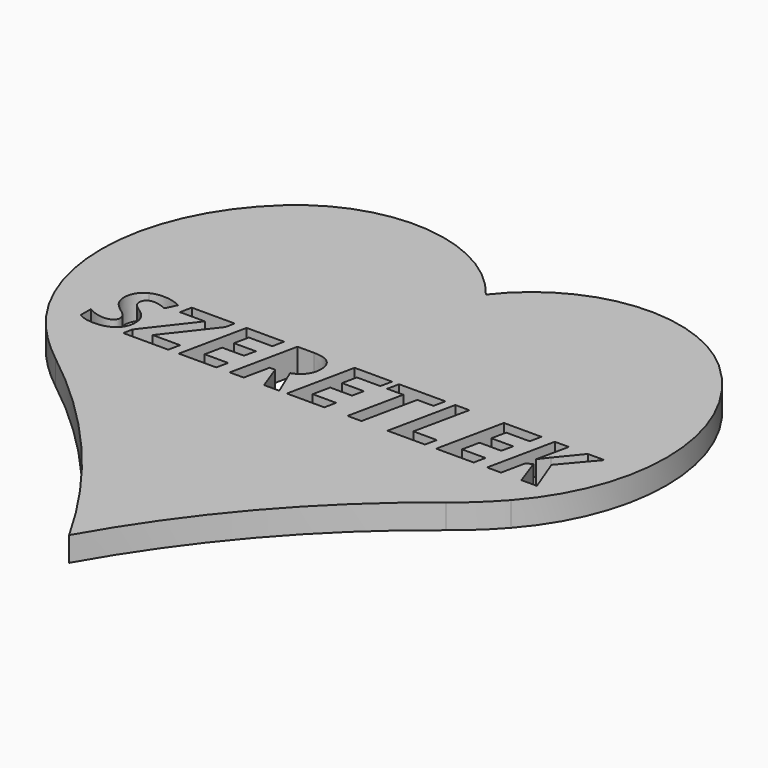
from build123d import *

# Parameters (mm, degrees)
F1_DEPTH = 5


with BuildPart() as f1:
    # F0 (on Top) → F1 (new body)
    with BuildSketch(Plane.XY):
        with BuildLine():
            ThreePointArc((39.9847812951, -13.5503625497), (43.9367876921, -10.1710657097), (47.5637614727, -6.445067469))
            ThreePointArc((47.5637614727, -6.445067469), (57.7574296409, 22.7274453414), (44.4848015904, 50.6341420114))
            ThreePointArc((44.4848015904, 50.6341420114), (21.3589499339, 58.3817468835), (0, 46.6078072786))
            ThreePointArc((0, 46.6078072786), (-21.3589499339, 58.3817468835), (-44.4848015904, 50.6341420114))
            ThreePointArc((-44.4848015904, 50.6341420114), (-57.7574296409, 22.7274453414), (-47.5637614727, -6.445067469))
            ThreePointArc((-47.5637614727, -6.445067469), (-43.9367876921, -10.1710657097), (-39.9847812951, -13.5503625497))
            ThreePointArc((-39.9847812951, -13.5503625497), (-17.6817313741, -34.786119341), (0, -60))
            ThreePointArc((0, -60), (17.6817313741, -34.786119341), (39.9847812951, -13.5503625497))
        make_face()
        with BuildLine():
            add(Edge.make_bspline(
                [(-38.2190007028, 6.1661579287), (-37.656258132, 5.2612678749), (-37.656258132, 4.0517465095)],
                knots=[0, 0, 0, 1, 1, 1], degree=2))
            add(Edge.make_bspline(
                [(-37.656258132, 4.0517465095), (-37.656258132, 2.0919017164), (-39.0443564732, 0.9514101063)],
                knots=[0, 0, 0, 1, 1, 1], degree=2))
            add(Edge.make_bspline(
                [(-39.0443564732, 0.9514101063), (-40.4324548144, -0.1890815038), (-42.8034768459, -0.1890815038)],
                knots=[0, 0, 0, 1, 1, 1], degree=2))
            add(Edge.make_bspline(
                [(-42.8034768459, -0.1890815038), (-44.8773708, -0.1890815038), (-46.143916746, 0.6572833227)],
                knots=[0, 0, 0, 1, 1, 1], degree=2))
            Line((-46.143916746, 0.6572833227), (-46.143916746, 3.226390739))
            add(Edge.make_bspline(
                [(-46.143916746, 3.226390739), (-44.3341366384, 2.2149547585), (-42.7854690837, 2.2149547585)],
                knots=[0, 0, 0, 1, 1, 1], degree=2))
            add(Edge.make_bspline(
                [(-42.7854690837, 2.2149547585), (-41.7350162849, 2.2149547585), (-41.1437614239, 2.6126261752)],
                knots=[0, 0, 0, 1, 1, 1], degree=2))
            add(Edge.make_bspline(
                [(-41.1437614239, 2.6126261752), (-40.5525065629, 3.0102975919), (-40.5525065629, 3.7035964391)],
                knots=[0, 0, 0, 1, 1, 1], degree=2))
            add(Edge.make_bspline(
                [(-40.5525065629, 3.7035964391), (-40.5525065629, 4.10877109), (-40.6800615456, 4.4134024016)],
                knots=[0, 0, 0, 1, 1, 1], degree=2))
            add(Edge.make_bspline(
                [(-40.6800615456, 4.4134024016), (-40.8076165283, 4.7180337133), (-41.0417174377, 4.980646913)],
                knots=[0, 0, 0, 1, 1, 1], degree=2))
            add(Edge.make_bspline(
                [(-41.0417174377, 4.980646913), (-41.2758183472, 5.2432601127), (-42.2032181038, 5.9365589599)],
                knots=[0, 0, 0, 1, 1, 1], degree=2))
            add(Edge.make_bspline(
                [(-42.2032181038, 5.9365589599), (-43.4997769868, 6.8669600102), (-44.0250033862, 7.7763520045)],
                knots=[0, 0, 0, 1, 1, 1], degree=2))
            add(Edge.make_bspline(
                [(-44.0250033862, 7.7763520045), (-44.5502297856, 8.6857439989), (-44.5502297856, 9.7361967977)],
                knots=[0, 0, 0, 1, 1, 1], degree=2))
            add(Edge.make_bspline(
                [(-44.5502297856, 9.7361967977), (-44.5502297856, 10.9457181631), (-43.9679788057, 11.8971282694)],
                knots=[0, 0, 0, 1, 1, 1], degree=2))
            add(Edge.make_bspline(
                [(-43.9679788057, 11.8971282694), (-43.3857278258, 12.8485383757), (-42.3112646774, 13.3782667156)],
                knots=[0, 0, 0, 1, 1, 1], degree=2))
            add(Edge.make_bspline(
                [(-42.3112646774, 13.3782667156), (-41.2368015289, 13.9079950556), (-39.8411999534, 13.9079950556)],
                knots=[0, 0, 0, 1, 1, 1], degree=2))
            add(Edge.make_bspline(
                [(-39.8411999534, 13.9079950556), (-37.8063228175, 13.9079950556), (-36.1165944584, 12.980595299)],
                knots=[0, 0, 0, 1, 1, 1], degree=2))
            Line((-36.1165944584, 12.980595299), (-37.1400356138, 10.7956534775))
            add(Edge.make_bspline(
                [(-37.1400356138, 10.7956534775), (-38.6016656509, 11.4889523247), (-39.8411999534, 11.4889523247)],
                knots=[0, 0, 0, 1, 1, 1], degree=2))
            add(Edge.make_bspline(
                [(-39.8411999534, 11.4889523247), (-40.6185350245, 11.4889523247), (-41.1152491336, 11.0672705584)],
                knots=[0, 0, 0, 1, 1, 1], degree=2))
            add(Edge.make_bspline(
                [(-41.1152491336, 11.0672705584), (-41.6119632428, 10.645588792), (-41.6119632428, 9.9522899448)],
                knots=[0, 0, 0, 1, 1, 1], degree=2))
            add(Edge.make_bspline(
                [(-41.6119632428, 9.9522899448), (-41.6119632428, 9.3790428461), (-41.3028299906, 8.9528591391)],
                knots=[0, 0, 0, 1, 1, 1], degree=2))
            add(Edge.make_bspline(
                [(-41.3028299906, 8.9528591391), (-40.9936967383, 8.5266754322), (-39.9162322962, 7.8213714102)],
                knots=[0, 0, 0, 1, 1, 1], degree=2))
            add(Edge.make_bspline(
                [(-39.9162322962, 7.8213714102), (-38.7817432735, 7.0710479825), (-38.2190007028, 6.1661579287)],
                knots=[0, 0, 0, 1, 1, 1], degree=2))
        make_face(mode=Mode.SUBTRACT)
        Polygon((-27.2237611935, 2.4010349686), (-27.7219759494, 0), (-36.9239424666, 0), (-36.566788515, 1.8848124503), (-29.2796473853, 11.3118759958), (-34.3728428124, 11.3118759958), (-33.8746280565, 13.7129109644), (-25.0958439525, 13.7129109644), (-25.4800095475, 11.8190946329), (-32.8151713766, 2.4010349686), align=None, mode=Mode.SUBTRACT)
        Polygon((-17.3855204096, 2.4010349686), (-17.8927390468, 0), (-25.5550418903, 0), (-22.6587934594, 13.7129109644), (-14.984485441, 13.7129109644), (-15.4917040782, 11.3298837581), (-20.2937740153, 11.3298837581), (-20.9240456946, 8.3195861662), (-16.4491167719, 8.3195861662), (-16.9653392901, 5.9365589599), (-21.4372669191, 5.9365589599), (-22.1875903468, 2.4010349686), align=None, mode=Mode.SUBTRACT)
        with BuildLine():
            Line((-10.0503585806, 5.2612678749), (-11.166839841, 5.2612678749))
            Line((-11.166839841, 5.2612678749), (-12.2833211014, 0))
            Line((-12.2833211014, 0), (-15.1435540077, 0))
            Line((-15.1435540077, 0), (-12.2473055768, 13.7129109644))
            Line((-12.2473055768, 13.7129109644), (-8.8798540334, 13.7129109644))
            add(Edge.make_bspline(
                [(-8.8798540334, 13.7129109644), (-6.6558953937, 13.7129109644), (-5.5394141333, 12.7554982707)],
                knots=[0, 0, 0, 1, 1, 1], degree=2))
            add(Edge.make_bspline(
                [(-5.5394141333, 12.7554982707), (-4.4229328729, 11.7980855769), (-4.4229328729, 9.9522899448)],
                knots=[0, 0, 0, 1, 1, 1], degree=2))
            add(Edge.make_bspline(
                [(-4.4229328729, 9.9522899448), (-4.4229328729, 8.4696508517), (-5.2017685909, 7.4056922313)],
                knots=[0, 0, 0, 1, 1, 1], degree=2))
            add(Edge.make_bspline(
                [(-5.2017685909, 7.4056922313), (-5.9806043088, 6.3417336108), (-7.4452356397, 5.8255110926)],
                knots=[0, 0, 0, 1, 1, 1], degree=2))
            Line((-7.4452356397, 5.8255110926), (-4.9961799717, 0))
            Line((-4.9961799717, 0), (-8.1115228434, 0))
            Line((-8.1115228434, 0), (-10.0503585806, 5.2612678749))
        make_face(mode=Mode.SUBTRACT)
        Polygon((4.7220090637, 2.4010349686), (4.2147904266, 0), (-3.4475124169, 0), (-0.5512639861, 13.7129109644), (7.1230440323, 13.7129109644), (6.6158253952, 11.3298837581), (1.813755458, 11.3298837581), (1.1834837787, 8.3195861662), (5.6584127015, 8.3195861662), (5.1421901832, 5.9365589599), (0.6702625542, 5.9365589599), (-0.0800608735, 2.4010349686), align=None, mode=Mode.SUBTRACT)
        Polygon((14.2030958959, 11.2938682335), (11.8200686896, 0), (8.9598357833, 0), (11.3428629896, 11.2938682335), (8.0414399078, 11.2938682335), (8.557662426, 13.7129109644), (18.0297453771, 13.7129109644), (17.5135228589, 11.2938682335), align=None, mode=Mode.SUBTRACT)
        Polygon((24.8216730445, 0), (17.159370201, 0), (20.0556186319, 13.7129109644), (22.9278567131, 13.7129109644), (20.5268217445, 2.4010349686), (25.3288916817, 2.4010349686), align=None, mode=Mode.SUBTRACT)
        Polygon((35.2811816265, 2.4010349686), (34.7739629894, 0), (27.1116601458, 0), (30.0079085767, 13.7129109644), (37.6822165951, 13.7129109644), (37.174997958, 11.3298837581), (32.3729280208, 11.3298837581), (31.7426563415, 8.3195861662), (36.2175852642, 8.3195861662), (35.701362746, 5.9365589599), (31.229435117, 5.9365589599), (30.4791116893, 2.4010349686), align=None, mode=Mode.SUBTRACT)
        Polygon((44.9963693682, 7.1460803253), (47.7275466449, 0), (44.5551791927, 0), (42.5773266373, 5.5523933649), (41.4038207964, 4.8951100422), (40.3833809348, 0), (37.5231480284, 0), (40.4193964593, 13.7129109644), (43.2916345405, 13.7129109644), (41.8660200279, 7.128072563), (43.3456578273, 9.0519018316), (47.1813111896, 13.7129109644), (50.569771789, 13.7129109644), align=None, mode=Mode.SUBTRACT)
    extrude(amount=F1_DEPTH)


solid = f1.part
